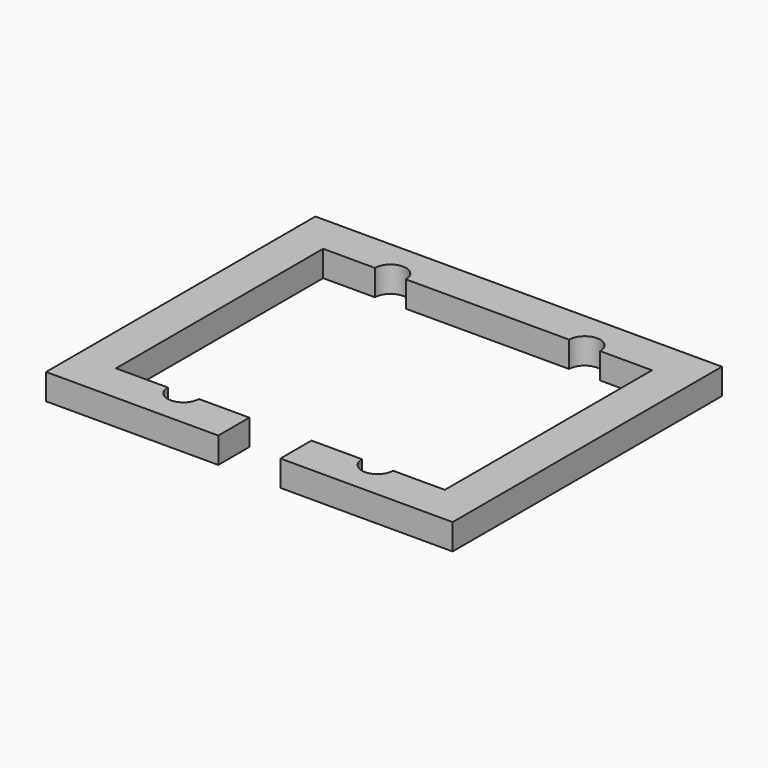
from build123d import *

# Parameters (mm, degrees)
F1_DEPTH = 2.54


with BuildPart() as f1:
    # F0 (on Top) → F1 (new body)
    with BuildSketch(Plane.XY):
        with BuildLine():
            Line((19.939, 16.51), (-19.939, 16.51))
            Line((-19.939, 16.51), (-19.939, -16.51))
            Line((-19.939, -16.51), (-3.048, -16.51))
            Line((-3.048, -16.51), (-3.048, -12.7))
            Line((-3.048, -12.7), (-8.001, -12.7))
            ThreePointArc((-8.001, -12.7), (-9.525, -14.224), (-11.049, -12.7))
            Line((-11.049, -12.7), (-16.129, -12.7))
            Line((-16.129, -12.7), (-16.129, 12.7))
            Line((-16.129, 12.7), (-11.049, 12.7))
            ThreePointArc((-11.049, 12.7), (-9.525, 14.224), (-8.001, 12.7))
            Line((-8.001, 12.7), (8.001, 12.7))
            ThreePointArc((8.001, 12.7), (9.525, 14.224), (11.049, 12.7))
            Line((11.049, 12.7), (16.129, 12.7))
            Line((16.129, 12.7), (16.129, -12.7))
            Line((16.129, -12.7), (11.049, -12.7))
            ThreePointArc((11.049, -12.7), (9.525, -14.224), (8.001, -12.7))
            Line((8.001, -12.7), (3.048, -12.7))
            Line((3.048, -12.7), (3.048, -16.51))
            Line((3.048, -16.51), (19.939, -16.51))
            Line((19.939, -16.51), (19.939, 16.51))
        make_face()
    extrude(amount=F1_DEPTH)


solid = f1.part
